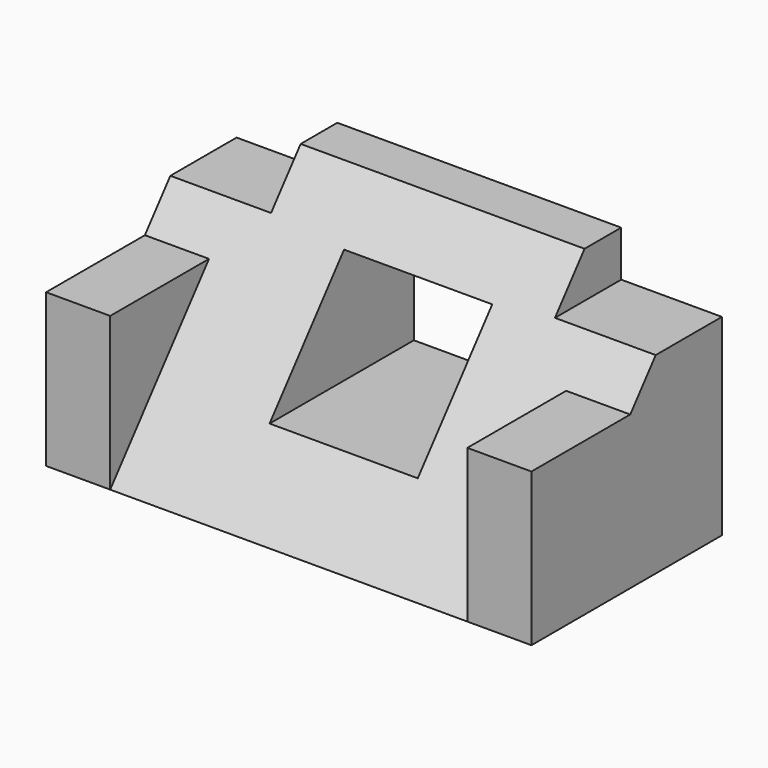
from build123d import *

# Parameters (mm, degrees)
PAD_DEPTH       = 26.5
PAD_DEPTH_BACK  = 26.5
SKETCH001_W     = 5
SKETCH001_H     = 11
POCKET_DEPTH    = 155.012627
SKETCH002_W     = 16.7
SKETCH002_H     = 7
PAD001_DEPTH    = 26
SKETCH004_W     = 12.588901
SKETCH004_H     = 16.182331
POCKET001_DEPTH = 26.001


with BuildPart() as part:
    # Sketch → Pad (new body, two sides)
    with BuildSketch(Plane.YZ) as pad_sk:
        Polygon((-26, 0), (-5, 26), (0, 26), (0, 0), align=None)
    extrude(amount=PAD_DEPTH)
    extrude(pad_sk.sketch, amount=-PAD_DEPTH_BACK)

    # Sketch001 (on Face3 of Pad) → Pocket (cut, through all)
    with BuildSketch(Plane.ZX):
        with Locations((23.5, 21)):
            Rectangle(SKETCH001_W, SKETCH001_H)
    pocket = extrude(amount=-POCKET_DEPTH, mode=Mode.SUBTRACT)

    # Mirrored: Pocket across Sketch001 H_Axis
    add(pocket.mirror(Plane.YZ), mode=Mode.SUBTRACT)

    # Sketch002 (on Face10 of Mirrored) → Pad001 (join)
    with BuildSketch(Plane.ZX):
        with Locations((8.35, 23)):
            Rectangle(SKETCH002_W, SKETCH002_H)
    pad001 = extrude(amount=-PAD001_DEPTH)

    # Mirrored001: Pad001 across Sketch002 H_Axis
    add(pad001.mirror(Plane.YZ))

    # Sketch004 (on Face6 of Mirrored001) → Pocket001 (cut, through all)
    with BuildSketch(Plane.ZX):
        with Locations((14.102484, 0.951072)):
            Rectangle(SKETCH004_W, SKETCH004_H)
    extrude(amount=-POCKET001_DEPTH, mode=Mode.SUBTRACT)


solid = part.part
